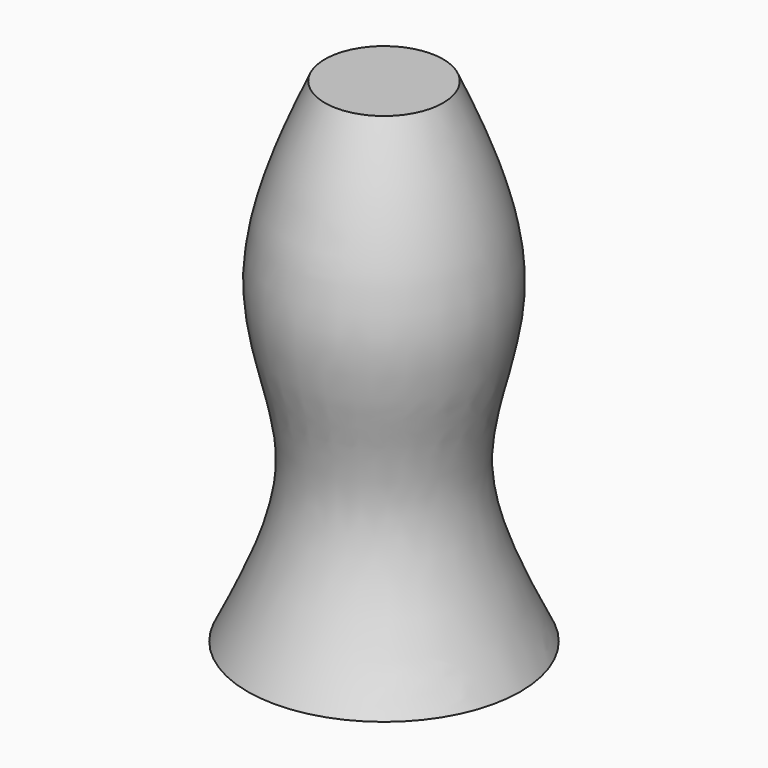
from build123d import *


with BuildPart() as f1:
    # F0 (on Front) → F1 (revolve)
    with BuildSketch(Plane.XZ):
        with BuildLine():
            Line((0, 150), (0, 0))
            Line((0, 0), (41.5172800422, 0))
            add(Edge.make_bspline(
                [(41.5172800422, 0), (33.5434419557, 16.5189142859), (17.8802824605, 48.9673270005), (40.8046160093, 93.7257338523), (26.5332007774, 131.1520134588), (17.9983742007, 150)],
                knots=[0, 0, 0, 0, 0.317270758, 0.6232208922, 0.9200908633, 0.9200908633, 0.9200908633, 0.9200908633], degree=3))
            Line((17.9983742007, 150), (0, 150))
        make_face()
    revolve(axis=Axis((0, 0, 75), (0, 0, 1)))


solid = f1.part
